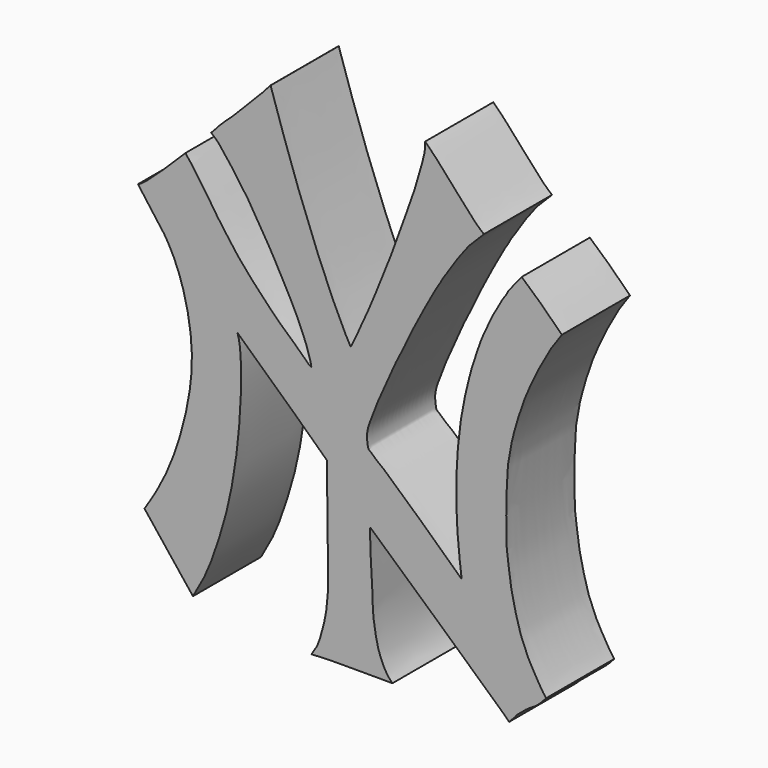
from build123d import *

# Parameters (mm, degrees)
F1_DEPTH = 10


with BuildPart() as f1:
    # F0 (on Front) → F1 (new body)
    with BuildSketch(Plane.XZ):
        with BuildLine():
            add(Edge.make_bspline(
                [(5.8026738832, 47.0708647402), (5.9199302282, 46.8197858989), (6.3347849931, 46.4071695996), (7.117314378, 45.2288565581), (8.1962461383, 43.7117031605), (8.7209404253, 42.9633579023), (9.5854871217, 41.5689496415), (10.3092453011, 40.6700006883), (11.1277823036, 39.4432778494), (12.1878968703, 38.0914519986), (13.1424484654, 36.9881301597), (14.2121779547, 35.7970304329), (15.0465927658, 34.9038134915), (15.9489823474, 34.0080591128), (16.919201074, 33.0029205098), (17.7676297473, 32.2789162281), (18.7326796361, 31.3886343798), (19.4385063419, 30.7034418232), (20.3230335104, 29.8320061642), (20.5038552645, 29.7383252666), (20.5597394103, 29.7093725725)],
                knots=[0, 0, 0, 0, 0.0452608283, 0.1053461563, 0.1731638097, 0.2222062674, 0.2848804178, 0.3394134758, 0.3996433056, 0.4652243139, 0.5262230519, 0.589040031, 0.6443360606, 0.7006523554, 0.7594722539, 0.8128469958, 0.8690791276, 0.9210371388, 0.9755857613, 1, 1, 1, 1], degree=3))
            add(Edge.make_bspline(
                [(5.8026738832, 47.0708647402), (5.2840260123, 46.5452222524), (4.0943166115, 45.3394681286), (0.8929911321, 42.3154477134), (0.3570098688, 42.0839019149), (0.2062135958, 42.0187573924)],
                knots=[0, 0, 0, 0, 0.3570913198, 0.8191201082, 1, 1, 1, 1], degree=3))
            add(Edge.make_bspline(
                [(0.2062135958, 42.0187573924), (0.7359590327, 41.2738032361), (1.7850746296, 39.7984851499), (3.4863321557, 37.7902188534), (5.2622970813, 34.2084336306), (6.4635316307, 29.2705598466), (6.7091185661, 24.0087427979), (5.2612269103, 17.3733233449), (3.1723113883, 12.1795716366), (1.6611978168, 9.8147774029), (0.9705467861, 8.7339535617)],
                knots=[0, 0, 0, 0, 0.0980030212, 0.1940866139, 0.3122923105, 0.4464954191, 0.5837710787, 0.7393783496, 0.8808834658, 1, 1, 1, 1], degree=3))
            add(Edge.make_bspline(
                [(6.6619119298, 1.5260120234), (5.054163078, 3.5217642017), (2.5366396753, 6.7819740472), (1.3888072975, 8.2047103663), (0.9705467861, 8.7339535617)],
                knots=[0, 0, 0, 0, 0.6315028731, 1, 1, 1, 1], degree=3))
            add(Edge.make_bspline(
                [(6.6619119298, 1.5260120234), (7.1606608305, 2.3947918338), (8.1665327247, 4.1469384397), (9.2836658357, 7.0953494591), (11.0546248622, 12.5543374718), (12.2925037221, 20.9271808558), (12.4020094705, 28.5984277337), (12.0195011894, 29.9984754342), (11.8961031658, 30.4501339414)],
                knots=[0, 0, 0, 0, 0.133636313, 0.2695164062, 0.452922729, 0.6865222753, 0.8988713876, 1, 1, 1, 1], degree=3))
            add(Edge.make_bspline(
                [(22.3792596806, 20.6989901757), (21.2120858366, 21.8041593081), (18.5131934321, 24.3908696586), (14.263002745, 28.2424378218), (11.8961031658, 30.4501339414)],
                knots=[0, 0, 0, 0, 0.429920455, 1, 1, 1, 1], degree=3))
            add(Edge.make_bspline(
                [(20.5747112966, 0.0592207863), (20.8034816794, 0.4016200858), (21.2499960477, 1.0699155404), (21.6062494701, 2.0687654633), (22.212193568, 4.2138235613), (22.4139114903, 5.9137471096), (22.5868979082, 7.9034944307), (22.4814860123, 9.4128699193), (22.486312071, 12.1122768225), (22.4906869515, 14.1510495285), (22.4110005609, 16.0750357228), (22.4339989632, 17.9126244476), (22.3987655463, 19.7060930636), (22.3792596806, 20.6989901757)],
                knots=[0, 0, 0, 0, 0.0722940863, 0.1411037036, 0.2390865039, 0.3285879404, 0.4202269134, 0.5032277403, 0.611494482, 0.7081233302, 0.7985750913, 0.8884874771, 1, 1, 1, 1], degree=3))
            add(Edge.make_bspline(
                [(30.085631592, 0.1484056734), (29.5180117078, 0.1488046533), (28.3773191599, 0.1496064458), (26.7484278977, 0.1425205596), (22.8923739417, 0.1800054701), (21.2828326574, 0.0961244379), (20.5747112966, 0.0592207863)],
                knots=[0, 0, 0, 0, 0.2115371262, 0.4251063611, 0.7470742318, 1, 1, 1, 1], degree=3))
            add(Edge.make_bspline(
                [(27.4619032958, 15.3448741719), (27.453684012, 14.8993211355), (27.418701546, 13.7492202493), (27.7324446917, 10.0111723739), (27.7502693713, 6.8096732068), (28.021952993, 4.9683526429), (28.4935631844, 2.57667607), (29.4435591835, 0.7789370744), (29.9043456779, 0.3264195883), (30.085631592, 0.1484056734)],
                knots=[0, 0, 0, 0, 0.1204558711, 0.310786349, 0.4869330576, 0.6193734014, 0.7720873573, 0.9103315942, 1, 1, 1, 1], degree=3))
            add(Edge.make_bspline(
                [(27.5528118767, 15.3448741719), (27.4619032958, 15.3448741719), (27.4801206643, 15.3448741719), (27.4637510133, 15.3448741719), (27.4619032958, 15.3448741719)],
                knots=[0, 0, 0, 0, 0.7683330961, 1, 1, 1, 1], degree=3))
            add(Edge.make_bspline(
                [(43.7805301421, 0.6051245496), (43.5705052315, 0.7874600794), (43.1411432033, 1.2971346385), (41.7473806332, 2.531022286), (40.3969922451, 3.7458852384), (38.9740355033, 5.0605407658), (36.515881846, 7.2989481193), (34.0049011582, 9.5110323025), (31.492481807, 11.783954132), (30.0143909309, 13.1168054411), (28.4397720005, 14.5420561942), (27.5528118767, 15.3448741719)],
                knots=[0, 0, 0, 0, 0.0692394265, 0.1678334738, 0.265941171, 0.3663914537, 0.4978003994, 0.6338820849, 0.7653039022, 0.8679192147, 1, 1, 1, 1], degree=3))
            add(Edge.make_bspline(
                [(48.1334978406, 4.4753090576), (47.7662118226, 4.0655114182), (47.0490743786, 3.2652271603), (45.9906492883, 2.8019085382), (44.6359959969, 1.5607141009), (44.6050413745, 1.5460748383), (44.5336777459, 1.3132393734), (44.0502395482, 0.9291539796), (43.7805301421, 0.6051245496)],
                knots=[0, 0, 0, 0, 0.2348637446, 0.4540870425, 0.6960873261, 0.7261014124, 0.8043763989, 1, 1, 1, 1], degree=3))
            add(Edge.make_bspline(
                [(49.9802127908, 42.6363647936), (49.8074179388, 42.3812403392), (49.5768155817, 42.0483860171), (49.4896467455, 41.9624563131), (49.2863993845, 41.653477225), (49.2017856826, 41.5218202623), (49.0956013977, 41.4016444534), (49.0441078453, 41.2928216515), (48.8976820022, 41.0759510603), (48.744606626, 40.8870433921), (48.5436551295, 40.5276453991), (48.4141359674, 40.2892548272), (48.2712432929, 40.0193370169), (48.1939254663, 39.9044637582), (48.0649500649, 39.7225109751), (47.9946709375, 39.5271182418), (47.8375873658, 39.295972359), (47.7001891627, 39.0192690954), (47.5596505588, 38.7700735693), (47.1134936426, 37.9386866667), (46.6835095241, 37.054246129), (46.6124185683, 36.8229290588), (46.1823221937, 35.9849740305), (45.9980309075, 35.4925297379), (45.8892145076, 35.1567164237), (45.5996221251, 34.647820473), (45.2766044479, 33.648906946), (45.1511049415, 33.3536817178), (44.7871509118, 32.1864379973), (44.5673874393, 31.5359928699), (44.4028663316, 30.9112573768), (44.2670503128, 30.2768138215), (44.171201773, 29.939106566), (44.0493998619, 29.4885740895), (44.0639603737, 29.373263093), (43.6917960698, 27.6646177295), (43.6042200279, 26.8069529854), (43.4423739959, 23.2760264313), (43.4356428043, 22.1796881582), (43.4871898016, 19.5854538748), (43.4874108131, 18.2229968702), (43.7160104153, 16.9166161017), (43.8446501614, 15.6241936277), (44.0784879979, 14.1910802801), (44.3643950494, 12.8494575971), (44.6528033927, 11.8104013946), (44.9919367331, 10.4790280883), (45.2510196833, 9.7938035382), (45.4749264981, 9.2468278579), (46.026543721, 7.9057144577), (46.3159181769, 7.4099050617), (47.0204548566, 6.1502539412), (47.3340754624, 5.6443466752), (47.8077362518, 4.8711975361), (48.0347035571, 4.5953708449), (48.1334978406, 4.4753090576)],
                knots=[0, 0, 0, 0, 0.0196725864, 0.0280036545, 0.0417562337, 0.0514292336, 0.0603057412, 0.0684419283, 0.0800404126, 0.0918596439, 0.1065670134, 0.119126975, 0.1316431396, 0.1404332435, 0.1511229871, 0.1617827588, 0.1740722303, 0.18674184, 0.1989722266, 0.2219030101, 0.2447455725, 0.2566062144, 0.2787887665, 0.2960818796, 0.30923188, 0.3273387115, 0.3507351992, 0.3648234776, 0.389932049, 0.409910177, 0.4284572518, 0.4469291498, 0.4613493353, 0.4763526089, 0.4849686835, 0.5139512371, 0.5389100681, 0.5811343305, 0.6078085667, 0.6442324392, 0.6721099317, 0.6982429993, 0.7248009436, 0.7529364913, 0.7799541846, 0.8044768171, 0.8316225848, 0.851093044, 0.8692722416, 0.8966186495, 0.915678066, 0.9427678145, 0.9617536659, 0.983372806, 1, 1, 1, 1], degree=3))
            add(Edge.make_bspline(
                [(45.2590158266, 47.0835764455), (45.4488127035, 46.8972946388), (45.7971143779, 46.577250323), (46.1048317785, 46.3117310907), (46.5480699441, 45.8917317753), (46.9002858093, 45.6453661497), (47.6778865824, 44.8949304287), (48.1820739178, 44.4425182504), (48.5800272591, 44.0390629739), (49.6892114995, 42.9322059186), (49.9038091366, 42.6987060292), (49.9802127908, 42.6363647936)],
                knots=[0, 0, 0, 0, 0.1154044729, 0.2024744458, 0.303839203, 0.3947608684, 0.5334562961, 0.6432666144, 0.7474051961, 0.9149881895, 1, 1, 1, 1], degree=3))
            add(Edge.make_bspline(
                [(38.1927826898, 13.5667871002), (38.195598243, 13.6144487598), (38.2047284264, 13.7690044249), (38.0690114748, 14.7021660402), (37.9659370797, 15.5758313365), (37.8871096062, 16.5581346756), (37.7448442252, 17.9556885231), (37.674661621, 18.8081084698), (37.5974086417, 20.4658439491), (37.5938994051, 21.3419951133), (37.5505208, 23.1674647349), (37.6008689356, 24.1878703786), (37.6799665056, 25.912669027), (37.7493771754, 26.8277376343), (37.9205455409, 28.3826647349), (38.0022210408, 29.2622021404), (38.2348573395, 30.7858052658), (38.4625721908, 31.8674353378), (38.8010259787, 33.5968452999), (39.0644344856, 34.4522781905), (39.2356384488, 35.3057048859), (39.569164392, 36.2336964282), (40.0490849276, 37.7935718344), (40.2362981476, 38.2235144254), (40.606558482, 39.3842701267), (41.1816097703, 40.4575015546), (41.8895170554, 42.1541977137), (42.3639369451, 42.7614845913), (43.0272758185, 44.1437140523), (43.4429218391, 44.6005337895), (43.6680081265, 45.1277480515), (44.0577927055, 45.5730953068), (44.6131619826, 46.2961785298), (44.9416520464, 46.7183133795), (45.1462274231, 46.9492420474), (45.2590158266, 47.0835764455)],
                knots=[0, 0, 0, 0, 0.0127172668, 0.0413345556, 0.0701530375, 0.1001063754, 0.135072709, 0.1639063997, 0.2014367337, 0.230991506, 0.2703448527, 0.3022096064, 0.3404908455, 0.3704945738, 0.4069536262, 0.4361795225, 0.4723584002, 0.5051492221, 0.5444624785, 0.5731643236, 0.6000664666, 0.6309098839, 0.6685321703, 0.6898130507, 0.7214583027, 0.7561669362, 0.7958377124, 0.8234433046, 0.8597632291, 0.8836805784, 0.9053709261, 0.9287174031, 0.9573423934, 0.9792983937, 1, 1, 1, 1], degree=3))
            add(Edge.make_bspline(
                [(40.8227135359, 50.0572743968), (40.278495261, 49.5264962233), (39.4004238648, 48.6701098185), (38.9183839974, 48.1219283156), (37.917805925, 46.8292426249), (37.2605492362, 45.7978302885), (36.7128656755, 45.0531873), (36.4318836337, 44.5177592986), (36.0102286263, 44.0106560672), (35.7392346266, 43.3790753357), (35.2844823537, 42.7788762349), (34.9520713857, 42.0424544647), (34.1817340062, 40.8514553278), (33.5546417253, 39.5015541036), (32.6736311142, 37.9036345411), (32.0815985518, 36.7250413527), (31.6013846719, 35.583753954), (30.3097465623, 33.1551186314), (29.9640029013, 32.190087217), (28.6179137908, 29.2392864547), (28.1572099038, 28.2528242272), (27.8161690081, 27.1555724496), (27.3246975357, 26.077884436), (27.1004579595, 25.1458137831), (27.0892612792, 24.4167397931), (27.1876232853, 23.7229749223), (27.2718528288, 23.3860875414), (27.5859460097, 23.2138450492), (28.1957993189, 22.5886193475), (28.7682916521, 22.215934558), (29.4501059825, 21.5971453085), (30.1872930361, 20.9265020598), (31.0003823748, 20.1950131306), (31.6750592199, 19.6083989186), (32.572817506, 18.7270986794), (33.632340868, 17.8647968105), (34.5760121171, 16.9059148468), (35.3286598226, 16.2736431554), (35.7973846918, 15.7742925672), (36.4948684373, 15.1572755162), (37.0992225381, 14.571135744), (37.7044251656, 14.0275289303), (38.0352708902, 13.7153919055), (38.1927826898, 13.5667871002)],
                knots=[0, 0, 0, 0, 0.0336641545, 0.0543155798, 0.0843233637, 0.1115018793, 0.1340176432, 0.1524466108, 0.1715700946, 0.1913646474, 0.2117602951, 0.2331771403, 0.2612796226, 0.2909772617, 0.3232335169, 0.3501346821, 0.377363418, 0.4159364294, 0.4423894271, 0.4844514446, 0.5103089816, 0.5351740914, 0.5613806807, 0.5845697052, 0.6050893999, 0.624968242, 0.638262025, 0.6519792653, 0.6740740192, 0.6942338823, 0.7168015023, 0.7409494191, 0.765731144, 0.7883447692, 0.8148943274, 0.8431427104, 0.8709781843, 0.8943623918, 0.9140480288, 0.9368998071, 0.9590869534, 0.9805217746, 1, 1, 1, 1], degree=3))
            add(Edge.make_bspline(
                [(33.9245989005, 57.3921854216), (34.0586900866, 57.2668942461), (34.4484638723, 56.9339332913), (35.8692249133, 55.3882104582), (37.454247538, 53.57409498), (38.7921791529, 52.0348969272), (40.1224562229, 50.6226849697), (40.6217108791, 50.2195541019), (40.8227135359, 50.0572743968)],
                knots=[0, 0, 0, 0, 0.1057007738, 0.2952930354, 0.5040841975, 0.6955476754, 0.8774464779, 1, 1, 1, 1], degree=3))
            add(Edge.make_bspline(
                [(25.2022681932, 33.3666209979), (25.3261194167, 33.6164476137), (25.5922987474, 34.1533678001), (26.0948557843, 35.1748210228), (26.542059513, 36.2767936276), (27.1254135167, 37.4419829913), (28.4112240544, 40.5547145155), (29.1342639604, 42.3100179156), (29.8888533204, 44.2486646412), (30.6469803562, 46.2936691344), (31.0324996978, 47.3414576645), (31.9364236444, 49.9157256634), (32.7335376642, 52.1011297232), (33.0523672053, 53.3755235038), (34.0569590848, 56.5110776801), (33.8830101626, 57.350145043), (33.9241433958, 57.3860092875), (33.9245989005, 57.3921854216)],
                knots=[0, 0, 0, 0, 0.0500434492, 0.1074788613, 0.1648665645, 0.2270488792, 0.3250116738, 0.4009001378, 0.4784025449, 0.5564691553, 0.614005775, 0.7024757814, 0.7839213745, 0.8483516459, 0.9461490494, 0.9910571527, 1, 1, 1, 1], degree=3))
            add(Edge.make_bspline(
                [(15.7789159301, 57.2798391351), (15.8387012546, 57.1055067564), (15.9858586727, 56.676399733), (16.3697313165, 55.3899922126), (16.93707107, 53.7232072748), (17.7035820675, 51.4679802263), (18.1582813031, 50.1269993555), (18.687723857, 48.6514220719), (19.2043395056, 47.1933348757), (20.0813151179, 44.9181940115), (20.8789729097, 42.7835441516), (21.5116199384, 41.2715445786), (22.1315138986, 39.7283624802), (22.6131015917, 38.6049358336), (23.225587046, 37.2370769115), (24.2671148945, 34.9914951273), (25.090480215, 33.4526397074), (25.153524053, 33.3784722424), (25.1976113651, 33.3771644953), (25.2022681932, 33.3666209979)],
                knots=[0, 0, 0, 0, 0.0393472362, 0.0967592311, 0.1654494117, 0.2431233937, 0.3038587479, 0.3655611395, 0.4286584641, 0.5077026711, 0.5843601584, 0.649260497, 0.7136824946, 0.7688896228, 0.8300305629, 0.9131046828, 0.9768260476, 0.9897480178, 1, 1, 1, 1], degree=3))
            add(Edge.make_bspline(
                [(8.7969320235, 50.1350942303), (8.9709812638, 50.2799758469), (9.3074113026, 50.6931962469), (10.0682918197, 51.5392412518), (11.3178024064, 52.5824878107), (13.1778381764, 54.6290554078), (14.7517745473, 56.0561765264), (15.7561051746, 57.3371685314), (15.7770305458, 57.2845774117), (15.7789159301, 57.2798391351)],
                knots=[0, 0, 0, 0, 0.1115377797, 0.248328479, 0.4155459723, 0.6315198805, 0.8359718547, 0.9851671581, 1, 1, 1, 1], degree=3))
            add(Edge.make_bspline(
                [(20.5597394103, 29.7093725725), (20.5488848758, 29.8238083439), (20.521385372, 30.1140214155), (20.2230076006, 31.0492549581), (19.9406452406, 32.0285919078), (19.093094598, 33.9682503944), (18.7611647694, 34.6960443701), (18.067246322, 36.0765861636), (17.3418310297, 37.4223482965), (16.1154965183, 39.7176797189), (15.5749139321, 40.634172629), (14.5268374219, 42.4020793851), (13.9405054086, 43.3498882598), (13.1926231013, 44.6166341138), (12.4949776668, 45.4946489444), (11.5110167852, 47.0417994455), (10.5324833289, 48.2007472007), (9.7158831003, 49.4062992588), (9.0931083036, 49.8775532366), (8.7969320235, 50.1350942303)],
                knots=[0, 0, 0, 0, 0.0315317134, 0.0801575288, 0.1338518282, 0.2062084299, 0.2532443513, 0.3135639257, 0.3790074608, 0.4590455271, 0.5138324798, 0.584471707, 0.6398747001, 0.6995066407, 0.7540144647, 0.821841331, 0.8852847641, 0.9454705062, 1, 1, 1, 1], degree=3))
        make_face()
    extrude(amount=F1_DEPTH)


solid = f1.part
